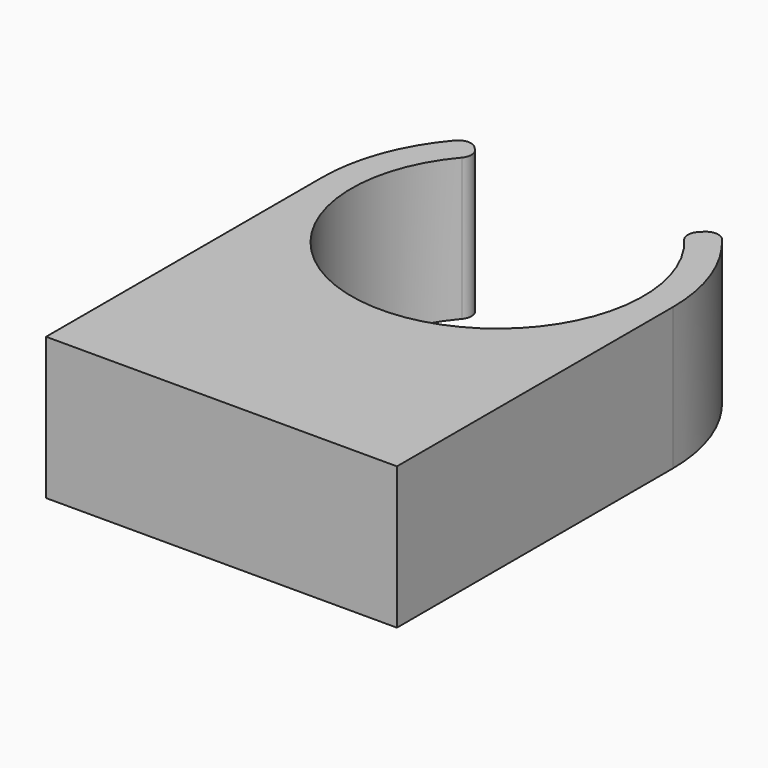
from build123d import *

# Parameters (mm, degrees)
PAD_DEPTH = 10


with BuildPart() as part:
    # Sketch → Pad (new body)
    with BuildSketch(Plane.XY):
        with BuildLine():
            ThreePointArc((-7.827064, 6.656778), (0, -10.275), (7.827064, 6.656778))
            ThreePointArc((7.87625, 7.87625), (7.613377, 7.276125), (7.827064, 6.656778))
            Line((7.87625, 7.87625), (8.071323, 8.071323))
            ThreePointArc((9.392168, 8.019331), (8.743117, 8.33423), (8.071323, 8.071323))
            ThreePointArc((12.35, 0), (11.586971, 4.273712), (9.392168, 8.019331))
            Line((12.35, 0), (12.35, -24.275))
            Line((12.35, -24.275), (-12.35, -24.275))
            Line((-12.35, -24.275), (-12.35, 0))
            ThreePointArc((-9.392168, 8.019331), (-11.586971, 4.273712), (-12.35, 0))
            ThreePointArc((-8.071323, 8.071323), (-8.743117, 8.33423), (-9.392168, 8.019331))
            Line((-8.071323, 8.071323), (-7.87625, 7.87625))
            ThreePointArc((-7.827064, 6.656778), (-7.613377, 7.276125), (-7.87625, 7.87625))
        make_face()
    extrude(amount=PAD_DEPTH)


solid = part.part
